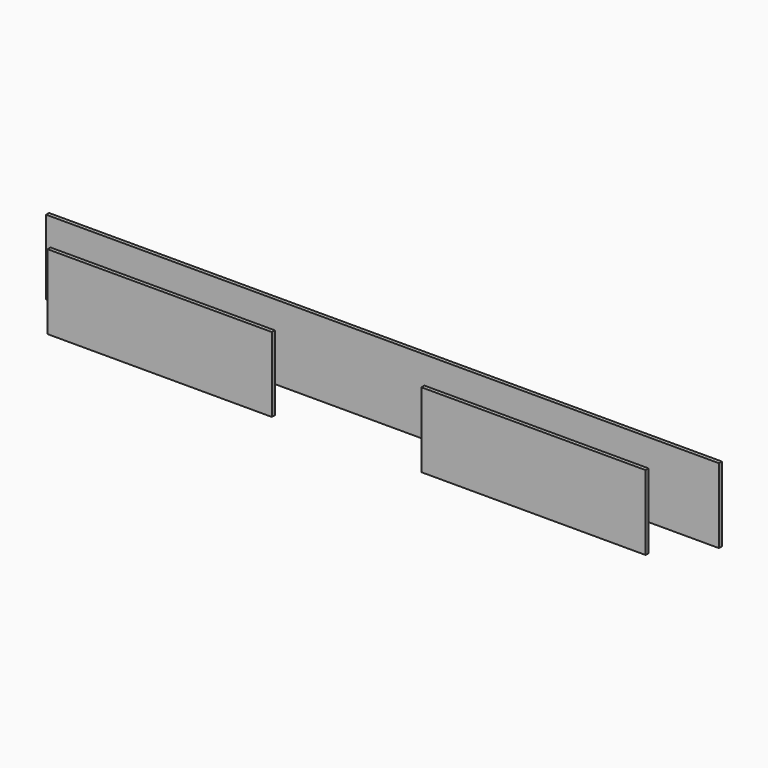
from build123d import *

# Parameters (mm, degrees)
BOX018_W     = 30
BOX018_H     = 0.5
BOX018_DEPTH = 10
BOX017_W     = 30
BOX017_H     = 0.5
BOX017_DEPTH = 10
BOX016_W     = 90
BOX016_H     = 0.5
BOX016_DEPTH = 10


with BuildPart() as cube018:
    # Box018 → Box018 (new body)
    with BuildSketch(Plane(origin=(10, 4, 5), x_dir=(1, 0, 0), z_dir=(0, 0, 1))):
        with Locations((15, 0.25)):
            Rectangle(BOX018_W, BOX018_H)
    extrude(amount=BOX018_DEPTH)


with BuildPart() as cube017:
    # Box017 → Box017 (new body)
    with BuildSketch(Plane(origin=(-40, 4, 5), x_dir=(1, 0, 0), z_dir=(0, 0, 1))):
        with Locations((15, 0.25)):
            Rectangle(BOX017_W, BOX017_H)
    extrude(amount=BOX017_DEPTH)


with BuildPart() as fusion002006007004002:
    # Box016 → Box016 (new body)
    with BuildSketch(Plane(origin=(-45, 10, 5), x_dir=(1, 0, 0), z_dir=(0, 0, 1))):
        with Locations((45, 0.25)):
            Rectangle(BOX016_W, BOX016_H)
    extrude(amount=BOX016_DEPTH)

    # Fusion002006007004002: union Cube018, Cube017
    add(cube018.part)
    add(cube017.part)


solid = fusion002006007004002.part
